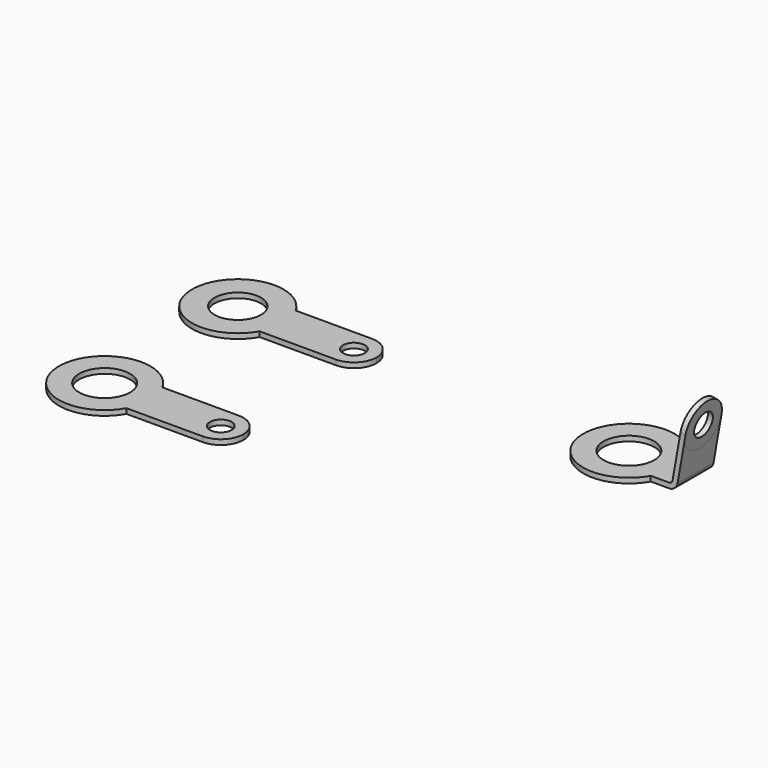
from build123d import *

# Parameters (mm, degrees)
F0_R     = 1.6
F0_R_2   = 0.75
F1_DEPTH = 0.35
F0_R_3   = 1.75
F2_W     = 1.4
F2_H     = 0.35
F5_DEPTH = 1.55


with BuildPart() as f1:
    # F0 (on Top) → F1 (new body)
    with BuildSketch(Plane.XY):
        with BuildLine():
            ThreePointArc((2.7422618402, -1.55), (3.0463605168, -0.8013660847), (3.15, 0))
            ThreePointArc((3.15, 0), (3.0463605168, 0.8013660847), (2.7422618402, 1.55))
            ThreePointArc((2.7422618402, 1.55), (-3.15, 0), (2.7422618402, -1.55))
        make_face()
        Circle(F0_R, mode=Mode.SUBTRACT)
        with BuildLine():
            ThreePointArc((2.7422618402, 1.55), (3.0463605168, 0.8013660847), (3.15, 0))
            ThreePointArc((3.15, 0), (3.0463605168, -0.8013660847), (2.7422618402, -1.55))
            Line((2.7422618402, -1.55), (8, -1.55))
            ThreePointArc((8, -1.55), (6.45, 0), (8, 1.55))
            Line((8, 1.55), (2.7422618402, 1.55))
        make_face()
        with BuildLine():
            ThreePointArc((9.55, 0), (9.0960155108, 1.0960155108), (8, 1.55))
            ThreePointArc((8, 1.55), (6.45, 0), (8, -1.55))
            ThreePointArc((8, -1.55), (9.0960155108, -1.0960155108), (9.55, 0))
        make_face()
        with Locations((8, 0)):
            Circle(F0_R_2, mode=Mode.SUBTRACT)
    extrude(amount=F1_DEPTH)


with BuildPart() as f1b:
    # F0 (on Top) → F1, piece 2 (new body)
    with BuildSketch(Plane.XY):
        with BuildLine():
            ThreePointArc((2.7422618402, -13.0123988047), (3.0463605168, -12.2637648894), (3.15, -11.4623988047))
            ThreePointArc((3.15, -11.4623988047), (3.0463605168, -10.66103272), (2.7422618402, -9.9123988047))
            ThreePointArc((2.7422618402, -9.9123988047), (-3.15, -11.4623988047), (2.7422618402, -13.0123988047))
        make_face()
        with Locations((0, -11.4623988047)):
            Circle(F0_R_3, mode=Mode.SUBTRACT)
        with BuildLine():
            ThreePointArc((2.7422618402, -9.9123988047), (3.0463605168, -10.66103272), (3.15, -11.4623988047))
            ThreePointArc((3.15, -11.4623988047), (3.0463605168, -12.2637648894), (2.7422618402, -13.0123988047))
            Line((2.7422618402, -13.0123988047), (8, -13.0123988047))
            ThreePointArc((8, -13.0123988047), (6.45, -11.4623988047), (8, -9.9123988047))
            Line((8, -9.9123988047), (2.7422618402, -9.9123988047))
        make_face()
        with BuildLine():
            ThreePointArc((9.55, -11.4623988047), (9.0960155108, -10.3663832939), (8, -9.9123988047))
            ThreePointArc((8, -9.9123988047), (6.45, -11.4623988047), (8, -13.0123988047))
            ThreePointArc((8, -13.0123988047), (9.0960155108, -12.5584143156), (9.55, -11.4623988047))
        make_face()
        with Locations((8, -11.4623988047)):
            Circle(F0_R_2, mode=Mode.SUBTRACT)
    extrude(amount=F1_DEPTH)


with BuildPart() as f3:
    # F2 (on Front) → F3 (revolve)
    with BuildSketch(Plane.XZ):
        with Locations((24.4865391731, 0.175)):
            Rectangle(F2_W, F2_H)
    revolve(axis=Axis((26.9365391731, 0, 0.175), (0, 0, -1)))



with BuildPart() as f4:
    # F2 (on Front) → F4 (revolve)
    with BuildSketch(Plane.XZ):
        Polygon((31.9988875464, 5.1851843947), (31.8676005182, 4.4406186587), (32.2122832318, 4.3798417965), (32.34357026, 5.1244075326), align=None)
        Polygon((31.8676005182, 4.4406186587), (31.729732871, 3.6587323776), (32.0744155846, 3.5979555154), (32.2122832318, 4.3798417965), align=None)
    revolve(axis=Axis((31.9020742278, 0, 3.6283439465), (0.984807753, 0, -0.1736481777)))


with BuildPart() as f3_1:
    add(f3.part)

    add(f4.part)  # F5 merges F4
    # F2 (on Front) → F5 (join, symmetric)
    with BuildSketch(Plane.XZ):
        with BuildLine():
            Line((31.5918652238, 2.8768460964), (31.2774550103, 1.0937371689))
            ThreePointArc((31.2774550103, 1.0937371689), (31.4678345252, 0.8787924835), (31.5365391731, 0.6))
            ThreePointArc((31.5365391731, 0.6), (31.534255992, 0.5477065544), (31.5274238249, 0.4958110934))
            Line((31.5274238249, 0.4958110934), (31.9365479374, 2.8160692342))
            Line((31.9365479374, 2.8160692342), (31.5918652238, 2.8768460964))
        make_face()
        with BuildLine():
            ThreePointArc((31.1827411114, 0.5565879556), (31.0972360755, 0.4084888892), (30.9365391731, 0.35))
            Line((30.9365391731, 0.35), (30.9365391731, 0))
            ThreePointArc((30.9365391731, 0), (31.3222117389, 0.1403733341), (31.5274238249, 0.4958110934))
            Line((31.5274238249, 0.4958110934), (31.1827411114, 0.5565879556))
        make_face()
        with BuildLine():
            ThreePointArc((31.5365391731, 0.6), (31.4678345252, 0.8787924835), (31.2774550103, 1.0937371689))
            Line((31.2774550103, 1.0937371689), (31.1827411114, 0.5565879556))
            Line((31.1827411114, 0.5565879556), (31.5274238249, 0.4958110934))
            ThreePointArc((31.5274238249, 0.4958110934), (31.534255992, 0.5477065544), (31.5365391731, 0.6))
        make_face()
        with BuildLine():
            Line((30.9365391731, 0.35), (30.3911035674, 0.35))
            ThreePointArc((30.3911035674, 0.35), (30.6125021382, 0.0950247531), (30.9365391731, 0))
            Line((30.9365391731, 0), (30.9365391731, 0.35))
        make_face()
        with BuildLine():
            Line((30.3911035674, 0.35), (28.6865391731, 0.35))
            Line((28.6865391731, 0.35), (28.6865391731, 0))
            Line((28.6865391731, 0), (30.9365391731, 0))
            ThreePointArc((30.9365391731, 0), (30.6125021382, 0.0950247531), (30.3911035674, 0.35))
        make_face()
        Polygon((31.729732871, 3.6587323776), (31.5918652238, 2.8768460964), (31.9365479374, 2.8160692342), (32.0744155846, 3.5979555154), align=None)
    extrude(amount=F5_DEPTH, both=True)

    # F2 (on Front) → F6 (revolve, cut)
    with BuildSketch(Plane.XZ):
        Polygon((31.8676005182, 4.4406186587), (31.729732871, 3.6587323776), (32.0744155846, 3.5979555154), (32.2122832318, 4.3798417965), align=None)
    revolve(axis=Axis((31.9020742278, 0, 3.6283439465), (0.984807753, 0, -0.1736481777)), mode=Mode.SUBTRACT)


solid = Compound([f1.part, f1b.part, f3_1.part])
